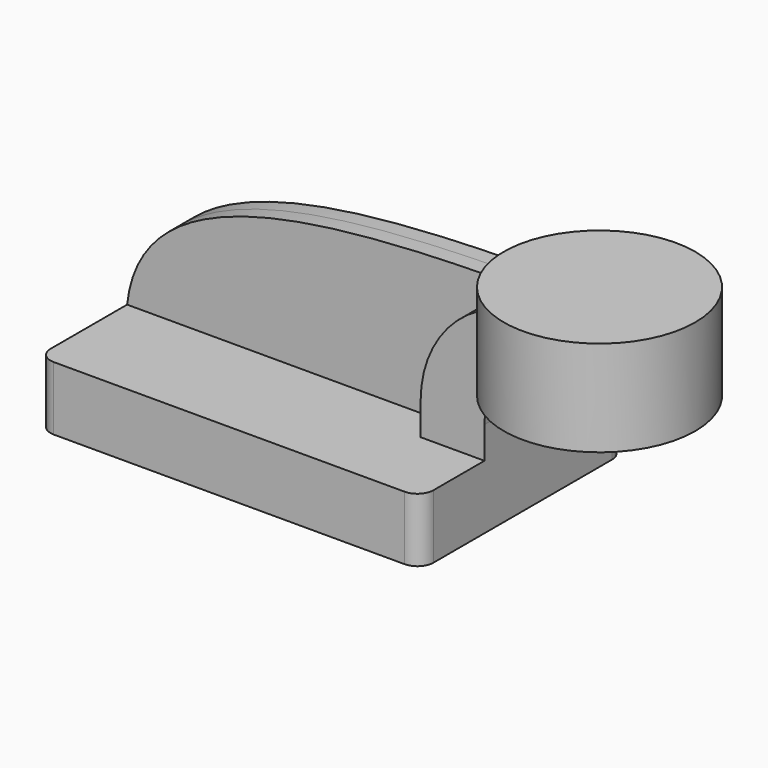
from build123d import *

# Parameters (mm, degrees)
F1_DEPTH = 40
F2_DEPTH = 15
F3_DEPTH = 5
F5_R     = 5


with BuildPart() as f1:
    # F0 (on Front) → F1 (new body, symmetric)
    with BuildSketch(Plane.XZ):
        Polygon((-60, -10), (60, -10), (60, 10), (40, 10), (-60, 10), align=None)
    extrude(amount=F1_DEPTH, both=True)

    # F0 (on Front) → F2 (join, symmetric)
    with BuildSketch(Plane.XZ):
        with BuildLine():
            Line((40, 10), (60, 10))
            Line((60, 10), (60, 20))
            ThreePointArc((60, 20), (64.393398, 30.606602), (75, 35))
            Line((75, 35), (84.064805, 35))
            Line((84.064805, 35), (84.064805, 55))
            Line((84.064805, 55), (75, 55))
            ThreePointArc((75, 55), (50.251263, 44.748737), (40, 20))
            Line((40, 20), (40, 10))
        make_face()
    extrude(amount=F2_DEPTH, both=True)

    # F0 (on Front) → F3 (join, symmetric)
    with BuildSketch(Plane.XZ):
        with BuildLine():
            add(Edge.make_bspline(
                [(-60, 10), (-55.525135, 51.721793), (7.100719, 55.106737), (75, 55)],
                knots=[0, 0, 0, 0, 142.302495, 142.302495, 142.302495, 142.302495], degree=3))
            Line((-60, 10), (40, 10))
            Line((40, 10), (40, 20))
            ThreePointArc((40, 20), (50.251263, 44.748737), (75, 55))
        make_face()
    extrude(amount=F3_DEPTH, both=True)

    # F0 (on Front) → F4 (revolve)
    with BuildSketch(Plane.XZ):
        Polygon((84.064805, 59.669833), (84.064805, 55), (84.064805, 35), (84.064805, 29.669833), (114.064805, 29.669833), (114.064805, 59.669833), align=None)
    revolve(axis=Axis((84.064805, 0, 44.669833), (0, 0, 1)))

    # F5
    f5_edges = [f1.edges().sort_by_distance(p)[0] for p in [
        (-60, -40, 0),
        (60, -40, 0),
        (60, 40, 0),
        (-60, 40, 0),
    ]]
    fillet(f5_edges, radius=F5_R)


solid = f1.part
